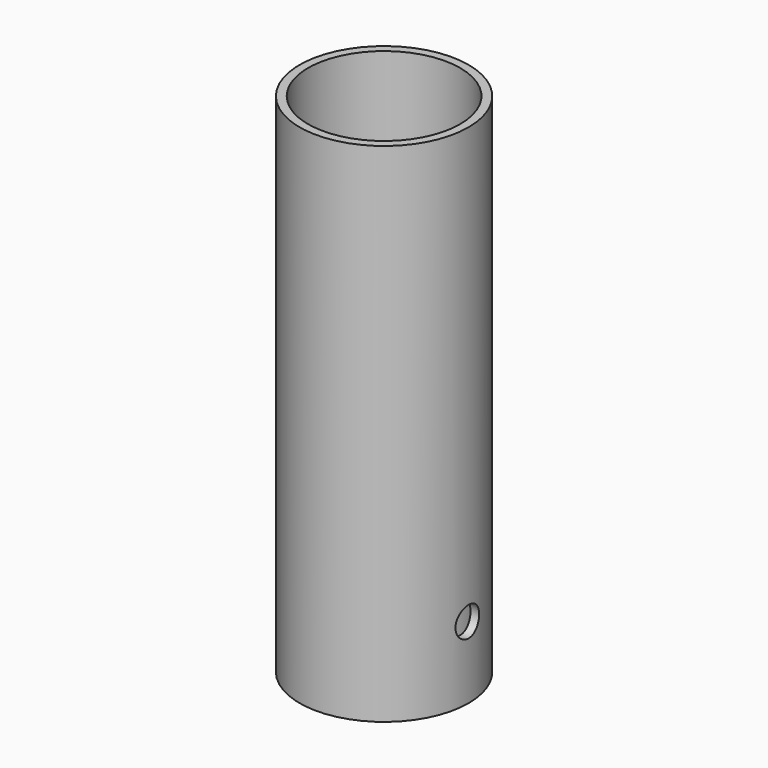
from build123d import *

# Parameters (mm, degrees)
F0_R     = 10
F0_R_2   = 9
F1_DEPTH = 30
F2_R     = 1.75
F3_DEPTH = 12.5


with BuildPart() as f1:
    # F0 (on Top) → F1 (new body, symmetric)
    with BuildSketch(Plane.XY):
        Circle(F0_R)
        Circle(F0_R_2, mode=Mode.SUBTRACT)
    extrude(amount=F1_DEPTH, both=True)

    # F2 (on Right) → F3 (cut, symmetric)
    with BuildSketch(Plane.YZ):
        with Locations((0, -21.5)):
            Circle(F2_R)
    extrude(amount=F3_DEPTH, both=True, mode=Mode.SUBTRACT)


solid = f1.part
